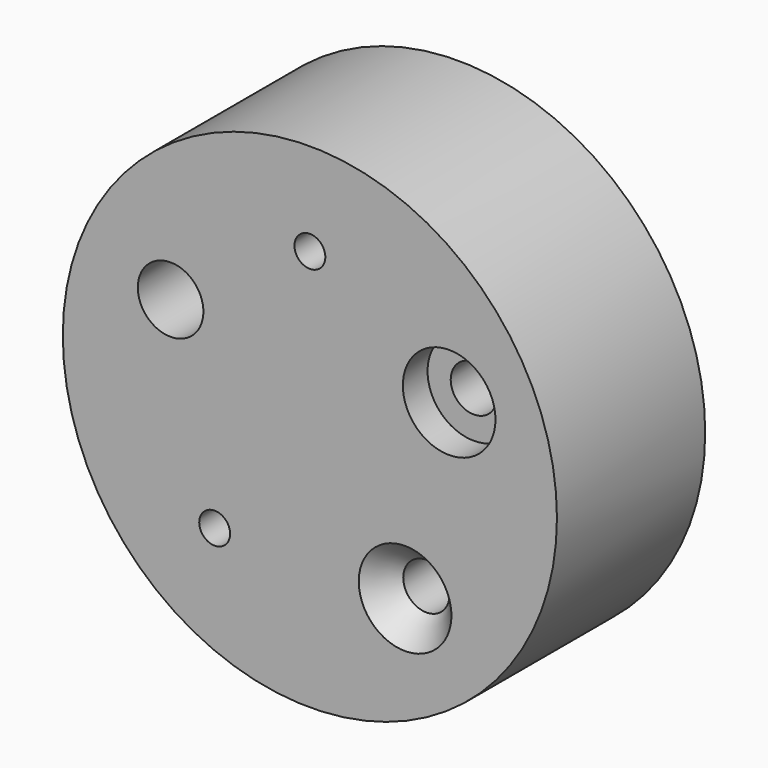
from build123d import *

# Parameters (mm, degrees)
F0_R           = 50.8
F1_DEPTH       = 38.1
F3_D           = 6.35
F4_D           = 9.525
F4_CBORE_D     = 19.05
F4_CBORE_DEPTH = 6.35
F5_D           = 9.525
F5_CSINK_D     = 19.05
F5_CSINK_ANGLE = 82
F6_D           = 6.35
F7_D           = 13.4874


with BuildPart() as f1:
    # F0 (on Front) → F1 (new body)
    with BuildSketch(Plane.XZ):
        Circle(F0_R)
        with BuildLine():
            ThreePointArc((0, 31.75), (22.45064, 22.45064), (31.75, 0))
            ThreePointArc((31.75, 0), (-22.45064, -22.45064), (0, 31.75))
        make_face(mode=Mode.SUBTRACT)
        with BuildLine():
            ThreePointArc((0, 31.75), (-22.45064, -22.45064), (31.75, 0))
            ThreePointArc((31.75, 0), (22.45064, 22.45064), (0, 31.75))
        make_face()
    extrude(amount=F1_DEPTH)

    # F3 (through all)
    with Locations(Plane.XZ.offset(38.1)):
        with Locations((0, 31.75)):
            Hole(F3_D / 2)

    # F4 (through all)
    with Locations(Plane.XZ.offset(38.1)):
        with Locations((28.636823, 13.711123)):
            CounterBoreHole(F4_D / 2, F4_CBORE_D / 2, F4_CBORE_DEPTH)

    # F5 (through all)
    with Locations(Plane.XZ.offset(38.1)):
        with Locations((19.574312, -24.712568)):
            CounterSinkHole(F5_D / 2, F5_CSINK_D / 2, counter_sink_angle=F5_CSINK_ANGLE)

    # F6 (through all)
    with Locations(Plane.XZ.offset(38.1)):
        with Locations((-19.574312, -24.712568)):
            Hole(F6_D / 2)

    # F7 (through all)
    with Locations(Plane.XZ.offset(38.1)):
        with Locations((-28.636823, 13.711123)):
            Hole(F7_D / 2)


solid = f1.part
